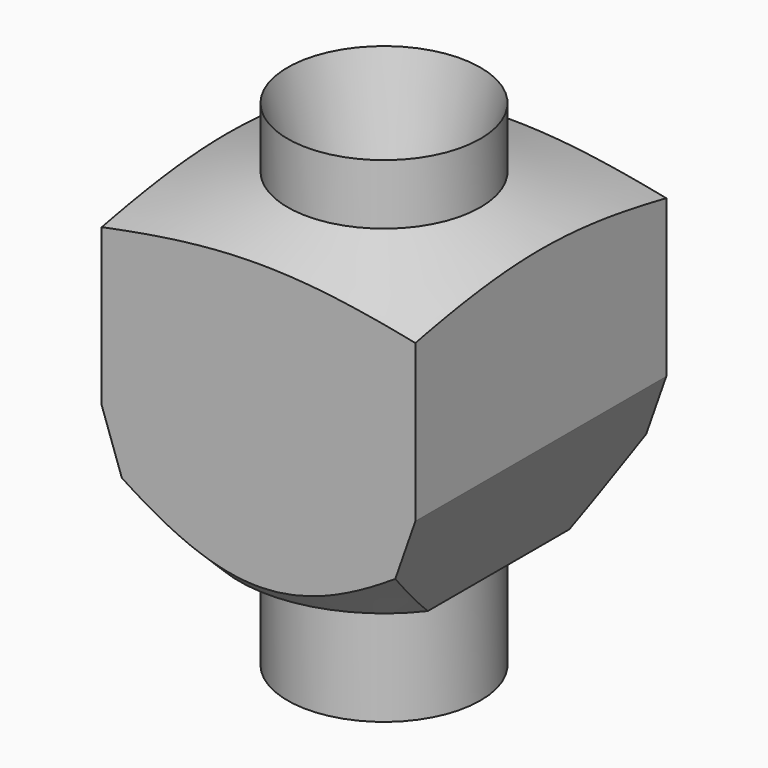
from build123d import *

# Parameters (mm, degrees)
F3_DEPTH = 6.5


with BuildPart() as f1:
    # F0 (on Front) → F1 (revolve)
    with BuildSketch(Plane.XZ):
        Polygon((4, -2.5), (4, 0), (2.5, -6.5), (2.5, -15.5), (4, -20.5), (4, -15.5), (6, -15.5), (15.640222, -5.859778), align=None)
    revolve(axis=Axis((0, 0, 0.112359), (0, 0, -1)))

    # F2 (on Front) → F3 (intersect, symmetric)
    with BuildSketch(Plane.XZ):
        Polygon((6.5, 0), (4, 0), (-4, 0), (-6.5, 0), (-6.5, -10.5), (-4.75, -15.5), (-4.75, -20.5), (0, -20.5), (4.75, -20.5), (4.75, -15.5), (6.5, -10.5), align=None)
    extrude(amount=F3_DEPTH, both=True, mode=Mode.INTERSECT)


solid = f1.part
